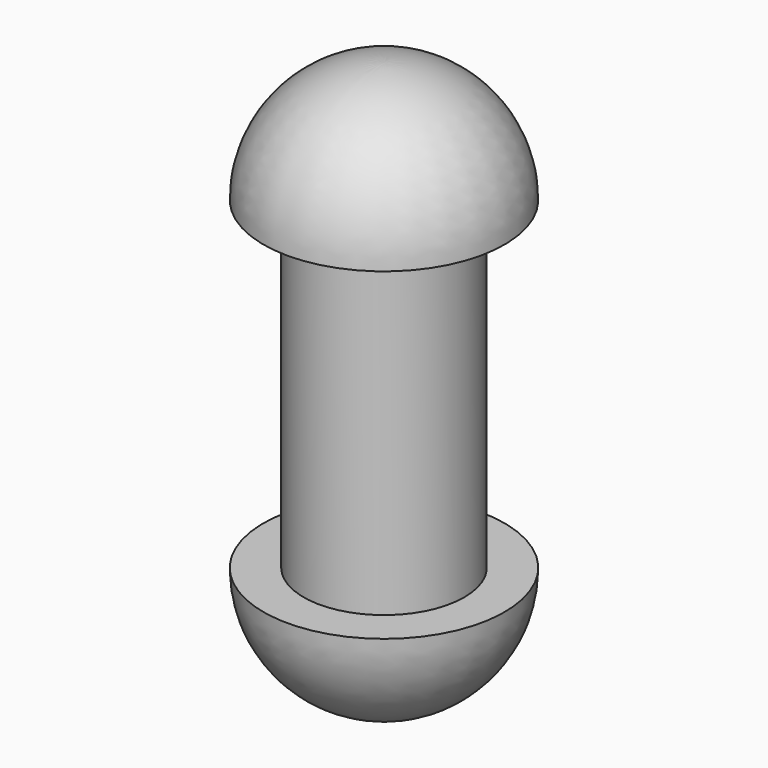
from build123d import *

# Parameters (mm, degrees)
F0_R     = 1
F1_DEPTH = 4


with BuildPart() as f1:
    # F0 (on Top) → F1 (new body)
    with BuildSketch(Plane.XY):
        Circle(F0_R)
    extrude(amount=F1_DEPTH)

    # F2 (on Right) → F3 (revolve)
    with BuildSketch(Plane.YZ):
        with BuildLine():
            Line((0, 0), (0, -1.5))
            ThreePointArc((0, -1.5), (1.06066, -1.06066), (1.5, 0))
            Line((1.5, 0), (0, 0))
        make_face()
    revolve(axis=Axis((0, 0, -0.75), (0, 0, -1)))


with BuildPart() as f5:
    # F4 (on Right) → F5 (revolve)
    with BuildSketch(Plane.YZ):
        with BuildLine():
            Line((0, 4.02731), (0, 5.52731))
            ThreePointArc((0, 5.52731), (-1.06066, 5.08797), (-1.5, 4.02731))
            Line((-1.5, 4.02731), (0, 4.02731))
        make_face()
    revolve(axis=Axis((0, 0, 4.77731), (0, 0, 1)))


solid = Compound([f1.part, f5.part])
